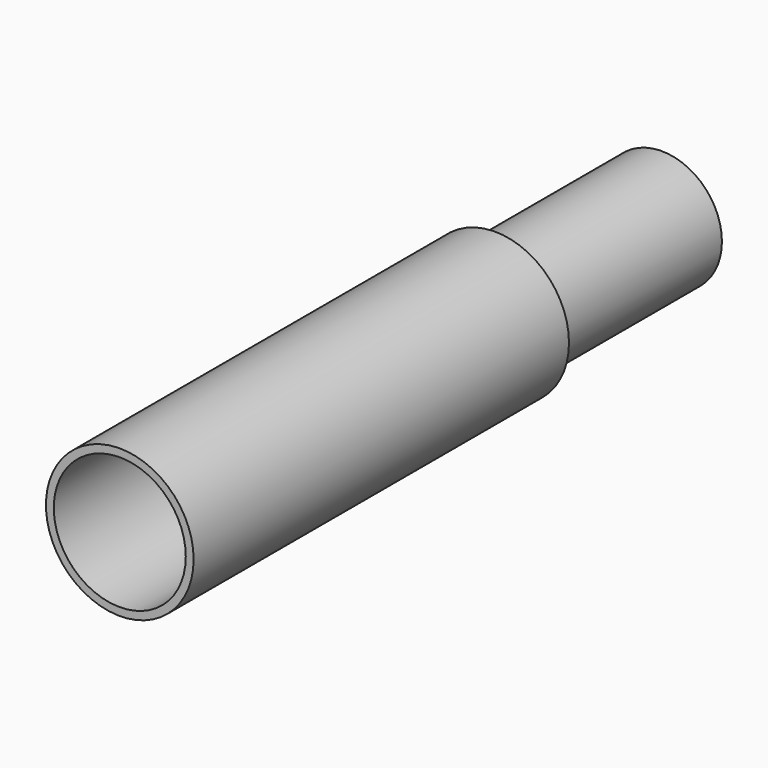
from build123d import *

# Parameters (mm, degrees)
F0_R     = 23.9192744627
F1_DEPTH = 151.98784
F2_R     = 19.4620024737
F3_DEPTH = 219.48349
F4_T     = -2.54


with BuildPart() as f1:
    # F0 (on Front) → F1 (new body)
    with BuildSketch(Plane.XZ):
        Circle(F0_R)
    extrude(amount=F1_DEPTH)

    # F2 (on face) → F3 (join)
    with BuildSketch(Plane.XZ.offset(151.98784)):
        Circle(F2_R)
    extrude(amount=-F3_DEPTH)

    # F4
    f4_openings = [f1.faces().sort_by_distance(p)[0] for p in [
        (0, -151.98784, 0),
    ]]
    offset(amount=F4_T, openings=f4_openings, kind=Kind.INTERSECTION)


solid = f1.part
